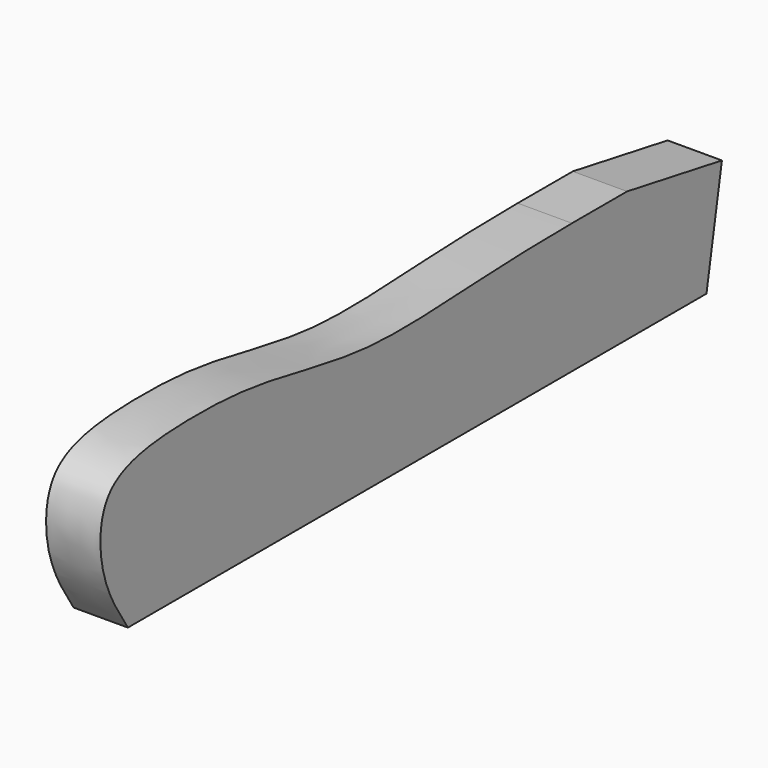
from build123d import *

# Parameters (mm, degrees)
F1_DEPTH = 38.1


with BuildPart() as f1:
    # F0 (on Right) → F1 (new body)
    with BuildSketch(Plane.YZ):
        with BuildLine():
            add(Edge.make_bspline(
                [(-77.8416801097, -140.3723796138), (-86.7576430749, -126.6133851248), (-94.0684838186, -114.3974275467), (-103.9672959812, -86.0521433705), (-99.8175625581, -38.2879550789), (-24.8766331006, -31.9151254106), (44.0750318865, -35.6643402185), (138.0076357928, -59.600661209), (224.077009858, -49.9367526301), (297.5719081297, -49.0238223811), (311.6326987357, -48.9262081683)],
                knots=[0, 0, 0, 0, 0.0834684169, 0.1606294925, 0.2512016305, 0.3691236055, 0.494088794, 0.6335382199, 0.805596361, 0.8457244788, 0.8457244788, 0.8457244788, 0.8457244788], degree=3))
            Line((-77.8416801097, -140.3723796138), (429.5951245476, -140.3723796138))
            Line((429.5951245476, -140.3723796138), (443.1330358156, -63.5950695636))
            Line((443.1330358156, -63.5950695636), (359.9417888699, -48.9262081683))
            Line((359.9417888699, -48.9262081683), (311.6326987357, -48.9262081683))
        make_face()
    extrude(amount=F1_DEPTH)


solid = f1.part
